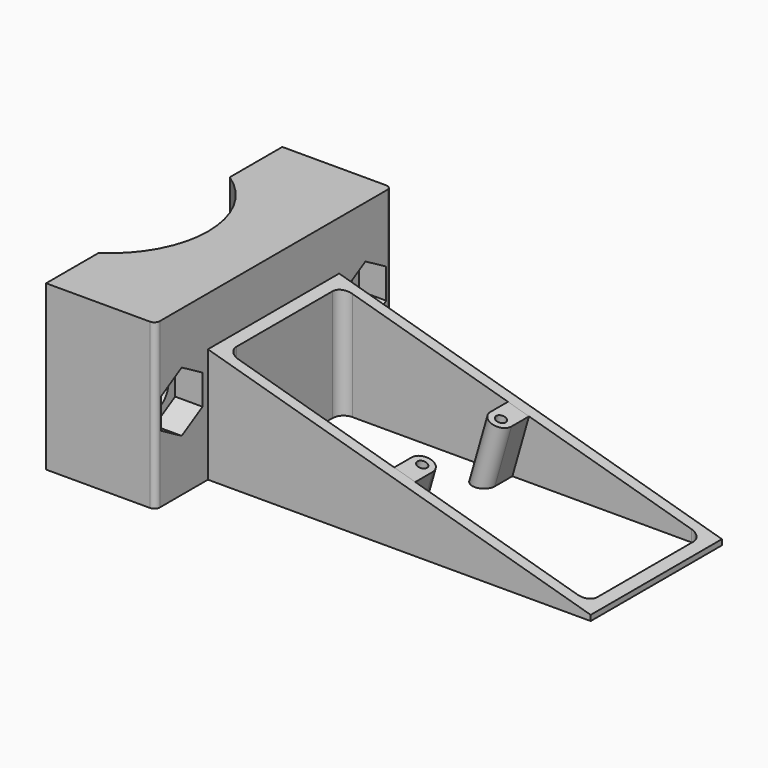
from build123d import *

# Parameters (mm, degrees)
PRISM_DEPTH                         = 5
CYLINDER_R                          = 3.2
CYLINDER_DEPTH                      = 30
FUSION_PLACEMENT_ANGLE              = 90
EXTRUDE002_DEPTH                    = 30
BOX_W                               = 80
BOX_H                               = 40
BOX_DEPTH                           = 10
SKETCH_AS_DRAWN_R                   = 0.9
EXTRUDE_DEPTH                       = 15
EXTRUDE_ONTO_SKETCH_PLACEMENT_ANGLE = 15.945396
EXTRUDE004_DEPTH                    = 30
EXTRUDE003_DEPTH                    = 30


with BuildPart() as prisma:
    # Prism → Prism (new body)
    with BuildSketch(Plane.XY):
        Polygon((5.5, 0), (2.75, 4.76314), (-2.75, 4.76314), (-5.5, 0), (-2.75, -4.76314), (2.75, -4.76314), align=None)
    extrude(amount=PRISM_DEPTH)


with BuildPart() as obj1:
    # Cylinder → Cylinder (new body)
    with BuildSketch(Plane.XY):
        Circle(CYLINDER_R)
    extrude(amount=CYLINDER_DEPTH)

    # Fusion: union Prisma
    add(prisma.part)


with BuildPart() as obj1_1:
    # Fusion placement: moved
    add(obj1.part.moved(Location((0, -21, 15))).rotate(Axis((0, -21, 15), (0, -1, 0)), FUSION_PLACEMENT_ANGLE))


with BuildPart() as obj2:
    # Clone base: copy of obj1
    add(obj1_1.part)


with BuildPart() as obj2_1:
    # Clone placement: moved
    add(obj2.part.moved(Location((0, 42, 0))))


with BuildPart() as obj3:
    # Fusion001 base: copy of obj1
    add(obj1_1.part)

    # Fusion001: union obj2
    add(obj2_1.part)


with BuildPart() as obj4:
    # Sketch002 → Extrude002 (new body)
    with BuildSketch(Plane.XY):
        with BuildLine():
            Line((-20, 27), (-1, 27))
            ThreePointArc((0, 26), (-0.292893, 26.707107), (-1, 27))
            Line((0, 26), (0, -26))
            ThreePointArc((-1, -27), (-0.292893, -26.707107), (0, -26))
            Line((-1, -27), (-20, -27))
            Line((-20, -27), (-20, -15))
            ThreePointArc((-20, -15), (-11.949874, 0), (-20, 15))
            Line((-20, 15), (-20, 27))
        make_face()
    extrude(amount=EXTRUDE002_DEPTH)


with BuildPart() as obj5:
    # Box → Box (new body)
    with BuildSketch(Plane(origin=(0, -35, -10), x_dir=(1, 0, 0), z_dir=(0, 0, 1))):
        with Locations((40, 20)):
            Rectangle(BOX_W, BOX_H)
    extrude(amount=BOX_DEPTH)


with BuildPart() as obj6:
    # Sketch as drawn → Extrude (new)
    with BuildSketch(Plane.XY):
        with BuildLine():
            Line((32, -28), (28, -28))
            Line((28, -28), (28, -24))
            ThreePointArc((32, -24), (30, -22), (28, -24))
            Line((32, -28), (32, -24))
        make_face()
        with Locations((30, -24)):
            Circle(SKETCH_AS_DRAWN_R, mode=Mode.SUBTRACT)
    extrude(amount=-EXTRUDE_DEPTH)


with BuildPart() as obj6_1:
    # Extrude onto Sketch placement: moved
    add(obj6.part.moved(Location((5.54717, 0, 19.415094))).rotate(Axis((5.54717, 0, 19.415094), (0, 1, 0)), EXTRUDE_ONTO_SKETCH_PLACEMENT_ANGLE))


with BuildPart() as cut:
    # Part__Mirroring: instance of obj6
    add(obj6_1.part.mirror(Plane(origin=(0, 0, 0), x_dir=(1, 0, 0), z_dir=(0, 1, 0))))


with BuildPart() as cut_1:
    # Part__Mirroring placement: moved
    add(cut.part.moved(Location((0, -30, 0))))

    # Fusion002: union obj6
    add(obj6_1.part)

    # Cut: cut obj5
    add(obj5.part, mode=Mode.SUBTRACT)


with BuildPart() as obj7:
    # Sketch004 → Extrude004 (new body)
    with BuildSketch(Plane(origin=(0, 0, 0), x_dir=(1, 0, 0), z_dir=(0, 0, -1))):
        with BuildLine():
            Line((4, 28), (66, 28))
            ThreePointArc((68, 26), (67.414214, 27.414214), (66, 28))
            Line((68, 26), (68, 4))
            ThreePointArc((66, 2), (67.414214, 2.585786), (68, 4))
            Line((66, 2), (4, 2))
            ThreePointArc((2, 4), (2.585786, 2.585786), (4, 2))
            Line((2, 4), (2, 26))
            ThreePointArc((4, 28), (2.585786, 27.414214), (2, 26))
        make_face()
    extrude(amount=EXTRUDE004_DEPTH)


with BuildPart() as obj7_1:
    # Extrude004 placement: moved
    add(obj7.part.moved(Location((0, 0, 30))))


with BuildPart() as solar_halter:
    # Sketch003 → Extrude003 (new body)
    with BuildSketch(Plane.XZ):
        Polygon((0, 0), (0, 21), (70, 1), (70, 0), align=None)
    extrude(amount=EXTRUDE003_DEPTH)

    # Cut001: cut obj7
    add(obj7_1.part, mode=Mode.SUBTRACT)

    # Fusion003: union Cut
    add(cut_1.part)


with BuildPart() as solar_halter_1:
    # Fusion003 placement: moved
    add(solar_halter.part.moved(Location((0, 15, 0))))

    # Fusion004: union obj4
    add(obj4.part)

    # Cut002: cut obj3
    add(obj3.part, mode=Mode.SUBTRACT)


solid = solar_halter_1.part
